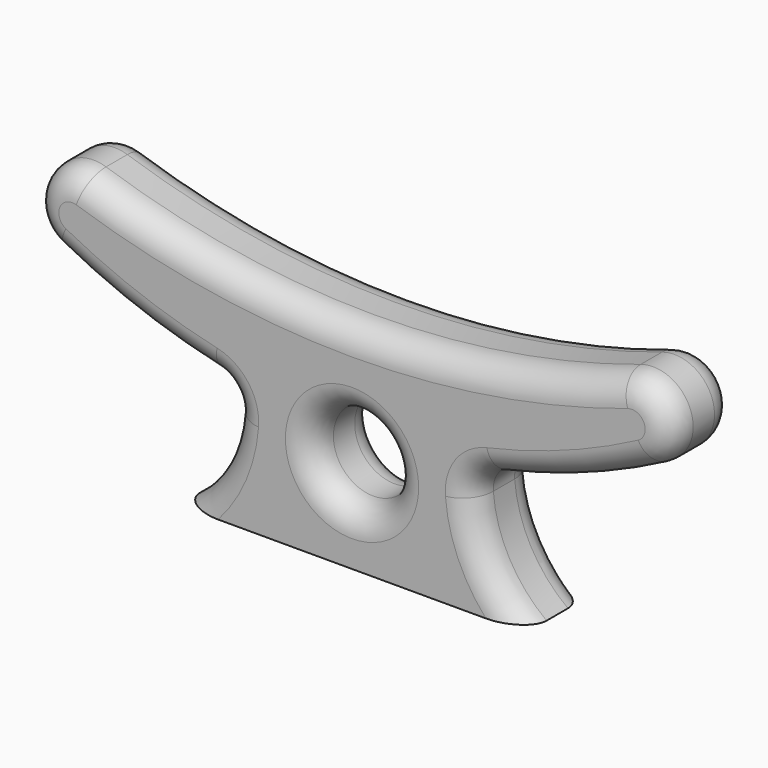
from build123d import *

# Parameters (mm, degrees)
F0_R     = 7.5
F1_DEPTH = 15
F2_R     = 5


with BuildPart() as f1:
    # F0 (on Front) → F1 (new body)
    with BuildSketch(Plane.XZ):
        with BuildLine():
            ThreePointArc((50.149254, 48.062341), (0, 40), (-50.149254, 48.062341))
            ThreePointArc((-50.149254, 48.062341), (-59.401627, 43.875829), (-56, 34.307013))
            ThreePointArc((-56, 34.307013), (-41.556916, 27.864486), (-26.392044, 23.377228))
            ThreePointArc((-26.392044, 23.377228), (-23.46842, 21.468343), (-22.506782, 18.111757))
            ThreePointArc((-22.506782, 18.111757), (-25.542263, 7.97382), (-32.5, 0))
            Line((-32.5, 0), (32.5, 0))
            ThreePointArc((32.5, 0), (25.542263, 7.97382), (22.506782, 18.111757))
            ThreePointArc((22.506782, 18.111757), (23.46842, 21.468343), (26.392044, 23.377228))
            ThreePointArc((26.392044, 23.377228), (41.556916, 27.864486), (56, 34.307013))
            ThreePointArc((56, 34.307013), (59.401627, 43.875829), (50.149254, 48.062341))
        make_face()
        with Locations((0, 17.5)):
            Circle(F0_R, mode=Mode.SUBTRACT)
    extrude(amount=F1_DEPTH)

    # F2
    f2_edges = [f1.edges().sort_by_distance(p)[0] for p in [
        (0, -15, 40),
        (0, 0, 40),
        (-7.5, 0, 17.5),
        (-7.5, -15, 17.5),
    ]]
    fillet(f2_edges, radius=F2_R)


solid = f1.part
